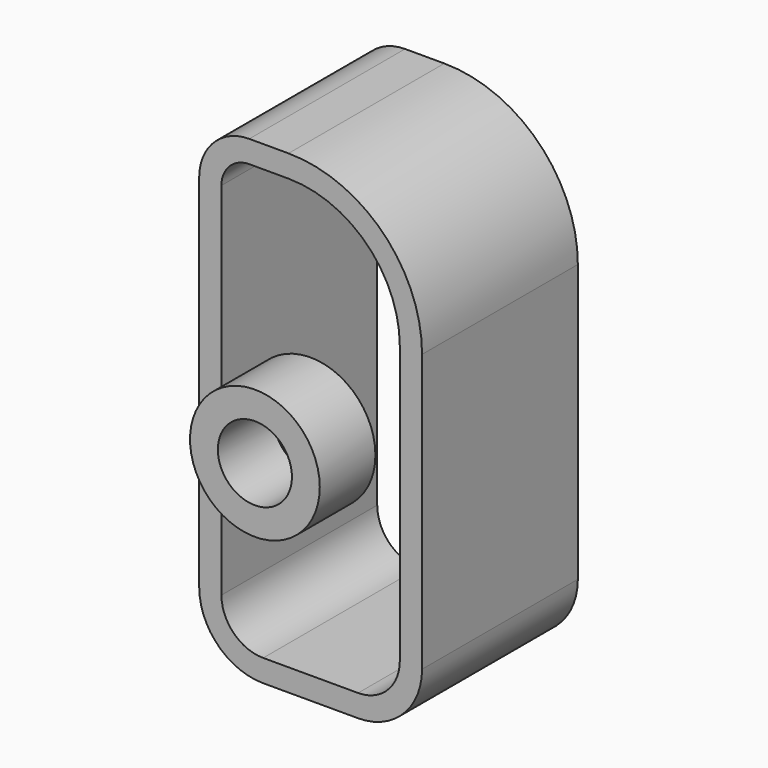
from build123d import *

# Parameters (mm, degrees)
F1_DEPTH = 44.45
F2_R     = 14.807781
F2_R_2   = 8.457781
F3_DEPTH = 15.875


with BuildPart() as f1:
    # F0 (on Front) → F1 (new body)
    with BuildSketch(Plane.XZ):
        with BuildLine():
            Line((131.770372, 80.003227), (131.770372, -2.312058))
            ThreePointArc((131.770372, -2.312058), (136.048078, -12.639352), (146.375372, -16.917058))
            Line((146.375372, -16.917058), (168.038414, -16.917058))
            ThreePointArc((168.038414, -16.917058), (178.365709, -12.639352), (182.643414, -2.312058))
            Line((182.643414, -2.312058), (182.643414, 60.953227))
            ThreePointArc((182.643414, 60.953227), (173.716029, 82.505842), (152.163414, 91.433227))
            Line((152.163414, 91.433227), (143.200372, 91.433227))
            ThreePointArc((143.200372, 91.433227), (135.118142, 88.085458), (131.770372, 80.003227))
        make_face()
        with BuildLine():
            ThreePointArc((177.563414, -2.312058), (174.773607, -9.04725), (168.038414, -11.837058))
            Line((168.038414, -11.837058), (146.375372, -11.837058))
            ThreePointArc((146.375372, -11.837058), (139.64018, -9.04725), (136.850372, -2.312058))
            Line((136.850372, -2.312058), (136.850372, 80.003227))
            ThreePointArc((136.850372, 80.003227), (138.710244, 84.493356), (143.200372, 86.353227))
            Line((143.200372, 86.353227), (152.163414, 86.353227))
            ThreePointArc((152.163414, 86.353227), (170.123927, 78.91374), (177.563414, 60.953227))
            Line((177.563414, 60.953227), (177.563414, -2.312058))
        make_face(mode=Mode.SUBTRACT)
    extrude(amount=F1_DEPTH)


with BuildPart() as f3:
    # F2 (on face) → F3 (new body)
    with BuildSketch(Plane.XZ.offset(44.45)):
        with Locations((157.187313, 37.258085)):
            Circle(F2_R)
        with Locations((157.187313, 37.258085)):
            Circle(F2_R_2, mode=Mode.SUBTRACT)
    extrude(amount=F3_DEPTH)


solid = Compound([f1.part, f3.part])
